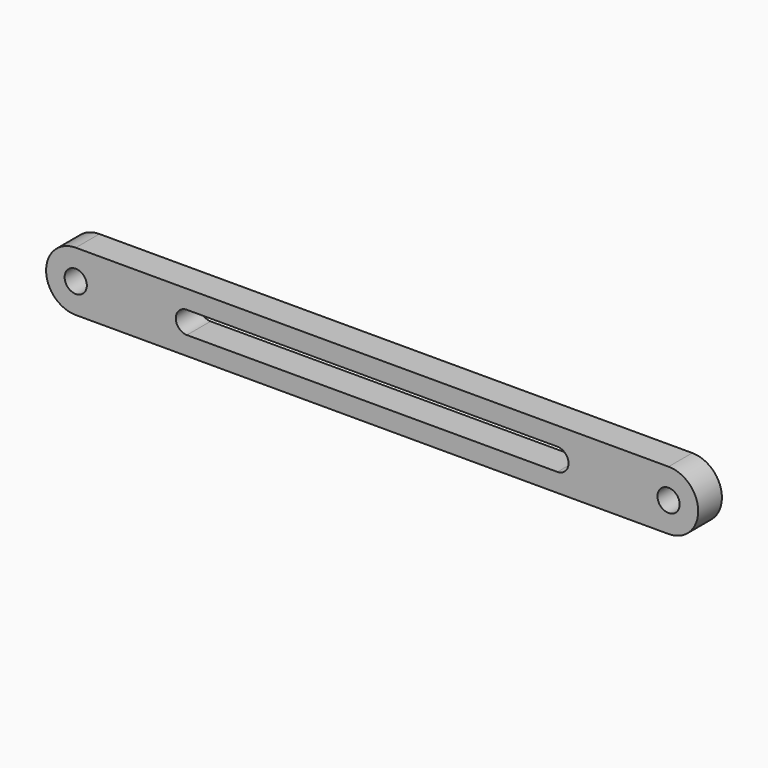
from build123d import *

# Parameters (mm, degrees)
F0_R     = 1.5
F1_DEPTH = 2
F3_DEPTH = 25


with BuildPart() as f1:
    # F0 (on Front) → F1 (new body, symmetric)
    with BuildSketch(Plane.XZ):
        with BuildLine():
            ThreePointArc((40, -4), (44, 0), (40, 4))
            Line((40, 4), (-40, 4))
            ThreePointArc((-40, 4), (-44, 0), (-40, -4))
            Line((-40, -4), (40, -4))
        make_face()
        with Locations((-40, 0)):
            Circle(F0_R, mode=Mode.SUBTRACT)
        with Locations((-10, 0)):
            Circle(F0_R, mode=Mode.SUBTRACT)
        with Locations((40, 0)):
            Circle(F0_R, mode=Mode.SUBTRACT)
    extrude(amount=F1_DEPTH, both=True)

    # F2 (on face) → F3 (cut)
    with BuildSketch(Plane.XZ.offset(2)):
        with BuildLine():
            Line((-10, 1.5), (-25, 1.5))
            ThreePointArc((-25, 1.5), (-26.5, 0), (-25, -1.5))
            Line((-25, -1.5), (-10, -1.5))
            ThreePointArc((-10, -1.5), (-11.5, 0), (-10, 1.5))
        make_face()
        with BuildLine():
            Line((25, 1.5), (-10, 1.5))
            ThreePointArc((-10, 1.5), (-8.93934, 1.06066), (-8.5, 0))
            ThreePointArc((-8.5, 0), (-8.93934, -1.06066), (-10, -1.5))
            Line((-10, -1.5), (25, -1.5))
            ThreePointArc((25, -1.5), (26.5, 0), (25, 1.5))
        make_face()
    extrude(amount=-F3_DEPTH, mode=Mode.SUBTRACT)


solid = f1.part
